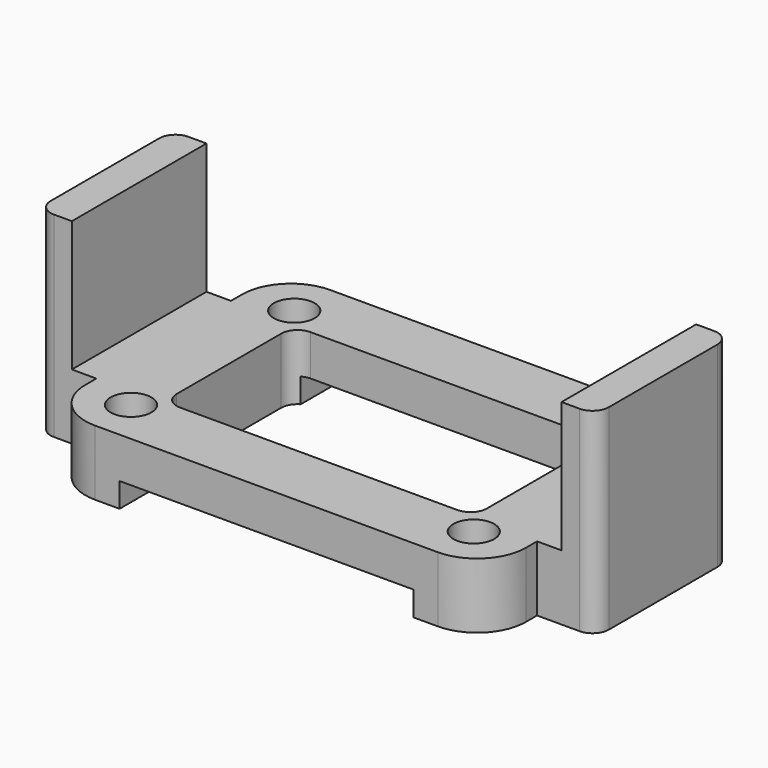
from build123d import *

# Parameters (mm, degrees)
F0_R     = 1.25
F1_DEPTH = 4
F2_W     = 18
F2_H     = 17
F3_DEPTH = 1.5
F5_DEPTH = 8


with BuildPart() as f1:
    # F0 (on Top) → F1 (new body)
    with BuildSketch(Plane.XY):
        with BuildLine():
            Line((-10.5, -9), (10.5, -9))
            ThreePointArc((10.5, -9), (12.62132, -8.12132), (13.5, -6))
            Line((13.5, -6), (13.5, -5.154641))
            Line((13.5, -5.154641), (13.5, 5.154641))
            Line((13.5, 5.154641), (13.5, 6))
            ThreePointArc((13.5, 6), (12.62132, 8.12132), (10.5, 9))
            Line((10.5, 9), (-10.5, 9))
            ThreePointArc((-10.5, 9), (-12.62132, 8.12132), (-13.5, 6))
            Line((-13.5, 6), (-13.5, 5.154641))
            Line((-13.5, 5.154641), (-13.5, -5.154641))
            Line((-13.5, -5.154641), (-13.5, -6))
            ThreePointArc((-13.5, -6), (-12.62132, -8.12132), (-10.5, -9))
        make_face()
        with Locations((-10.5, -6.25)):
            Circle(F0_R, mode=Mode.SUBTRACT)
        with Locations((10.5, -6.25)):
            Circle(F0_R, mode=Mode.SUBTRACT)
        with Locations((-10.5, 6.25)):
            Circle(F0_R, mode=Mode.SUBTRACT)
        with BuildLine():
            ThreePointArc((9.5, -4), (9.207107, -4.707107), (8.5, -5))
            Line((8.5, -5), (-8.5, -5))
            ThreePointArc((-8.5, -5), (-9.207107, -4.707107), (-9.5, -4))
            Line((-9.5, -4), (-9.5, 4))
            ThreePointArc((-9.5, 4), (-9.207107, 4.707107), (-8.5, 5))
            Line((-8.5, 5), (8.5, 5))
            ThreePointArc((8.5, 5), (9.207107, 4.707107), (9.5, 4))
            Line((9.5, 4), (9.5, -4))
        make_face(mode=Mode.SUBTRACT)
        with Locations((10.5, 6.25)):
            Circle(F0_R, mode=Mode.SUBTRACT)
        with BuildLine():
            Line((13.5, 5.154641), (13.5, -5.154641))
            Line((13.5, -5.154641), (16.1, -5.154641))
            ThreePointArc((16.1, -5.154641), (16.807107, -4.861748), (17.1, -4.154641))
            Line((17.1, -4.154641), (17.1, 4.154641))
            ThreePointArc((17.1, 4.154641), (16.807107, 4.861748), (16.1, 5.154641))
            Line((16.1, 5.154641), (13.5, 5.154641))
        make_face()
        with BuildLine():
            Line((-16.1, -5.154641), (-13.5, -5.154641))
            Line((-13.5, -5.154641), (-13.5, 5.154641))
            Line((-13.5, 5.154641), (-16.1, 5.154641))
            ThreePointArc((-16.1, 5.154641), (-16.807107, 4.861748), (-17.1, 4.154641))
            Line((-17.1, 4.154641), (-17.1, -4.154641))
            ThreePointArc((-17.1, -4.154641), (-16.807107, -4.861748), (-16.1, -5.154641))
        make_face()
    extrude(amount=F1_DEPTH)

    # F2 (on face) → F3 (cut)
    with BuildSketch(Plane(origin=(0, 0, 0), x_dir=(1, 0, 0), z_dir=(0, 0, -1))):
        with Locations((0, 0.5)):
            Rectangle(F2_W, F2_H)
    extrude(amount=-F3_DEPTH, mode=Mode.SUBTRACT)

    # F4 (on face) → F5 (join)
    with BuildSketch(Plane.XY.offset(4)):
        with BuildLine():
            ThreePointArc((-16.1, 5.154641), (-16.807107, 4.861748), (-17.1, 4.154641))
            Line((-17.1, 4.154641), (-17.1, -4.154641))
            ThreePointArc((-17.1, -4.154641), (-16.807107, -4.861748), (-16.1, -5.154641))
            Line((-16.1, -5.154641), (-15, -5.154641))
            Line((-15, -5.154641), (-15, 5.154641))
            Line((-15, 5.154641), (-16.1, 5.154641))
        make_face()
        with BuildLine():
            ThreePointArc((17.1, 4.154641), (16.807107, 4.861748), (16.1, 5.154641))
            Line((16.1, 5.154641), (15, 5.154641))
            Line((15, 5.154641), (15, -5.154641))
            Line((15, -5.154641), (16.1, -5.154641))
            ThreePointArc((16.1, -5.154641), (16.807107, -4.861748), (17.1, -4.154641))
            Line((17.1, -4.154641), (17.1, 4.154641))
        make_face()
    extrude(amount=F5_DEPTH)


solid = f1.part
